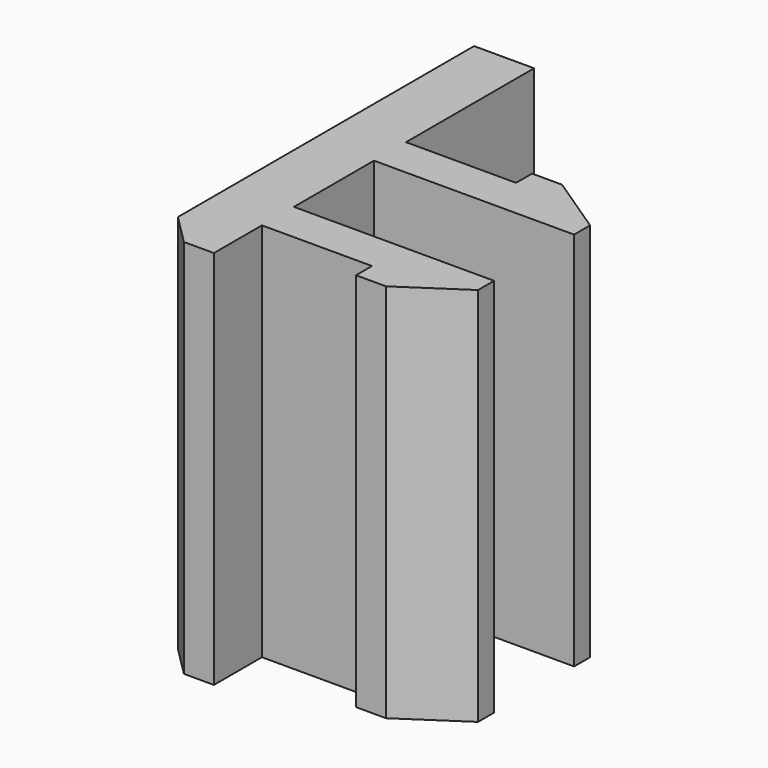
from build123d import *

# Parameters (mm, degrees)
F1_DEPTH = 19
F2_SIZE  = 1.5


with BuildPart() as f1:
    # F0 (on Top) → F1 (new body)
    with BuildSketch(Plane.XY):
        Polygon((0, 20), (0, 0), (3, 0), (3, 3), (8.5, 3), (8.5, 2), (10, 2), (13, 4), (13, 5), (3, 5), (3, 10), (13, 10), (13, 11), (10, 13), (8.5, 13), (8.5, 12), (3, 12), (3, 20), align=None)
    extrude(amount=F1_DEPTH)

    # F2
    f2_edges = [f1.edges().sort_by_distance(p)[0] for p in [
        (0, 0, 9.5),
    ]]
    chamfer(f2_edges, length=F2_SIZE)


solid = f1.part
